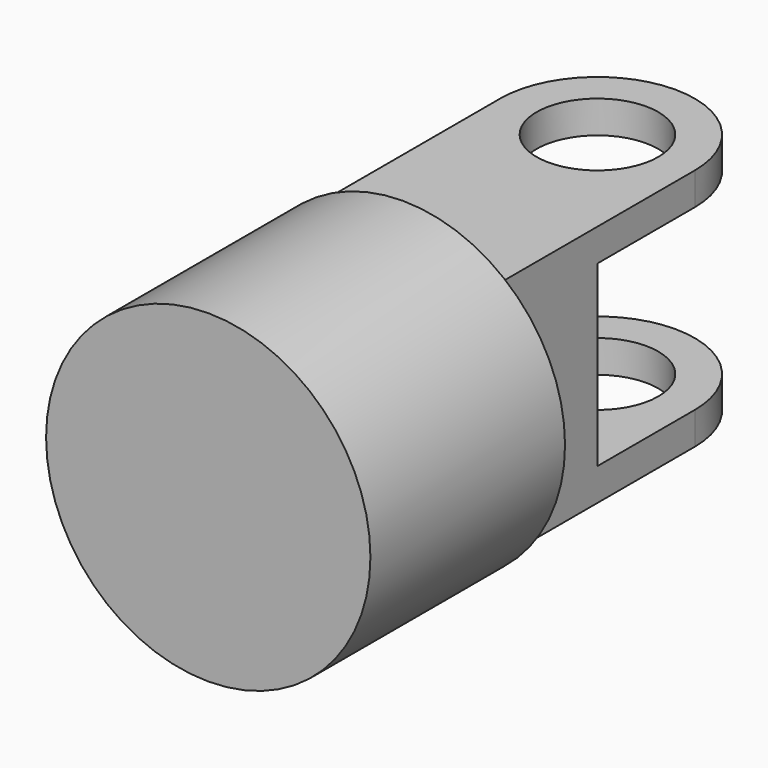
from build123d import *

# Parameters (mm, degrees)
F1_DEPTH = 30
F2_R     = 20
F2_W     = 24
F2_H     = 30
F3_DEPTH = 30
F4_W     = 15
F4_H     = 22
F5_DEPTH = 25.4


with BuildPart() as f1:
    # F0 (on Top) → F1 (new body)
    with BuildSketch(Plane.XY):
        with BuildLine():
            Line((7.5, 15), (12, 15))
            ThreePointArc((12, 15), (0, 27), (-12, 15))
            Line((-12, 15), (-7.5, 15))
            ThreePointArc((-7.5, 15), (0, 22.5), (7.5, 15))
        make_face()
        with BuildLine():
            ThreePointArc((-12, 15), (0, 3), (12, 15))
            Line((12, 15), (7.5, 15))
            ThreePointArc((7.5, 15), (0, 7.5), (-7.5, 15))
            Line((-7.5, 15), (-12, 15))
        make_face()
        with BuildLine():
            Line((12, -15), (12, 15))
            ThreePointArc((12, 15), (0, 3), (-12, 15))
            Line((-12, 15), (-12, -15))
            Line((-12, -15), (12, -15))
        make_face()
    extrude(amount=F1_DEPTH)

    # F2 (on face) → F3 (join)
    with BuildSketch(Plane.XZ.offset(15)):
        with Locations((0, 15)):
            Circle(F2_R)
        with Locations((0, 15)):
            Rectangle(F2_W, F2_H, mode=Mode.SUBTRACT)
        with Locations((0, 15)):
            Rectangle(F2_W, F2_H)
    extrude(amount=F3_DEPTH)

    # F4 (on face) → F5 (cut)
    with BuildSketch(Plane(origin=(-12, 0, 0), x_dir=(0, -1, 0), z_dir=(-1, 0, 0))):
        with Locations((-22.5, 15)):
            Rectangle(F4_W, F4_H)
        with Locations((-7.5, 15)):
            Rectangle(F4_W, F4_H)
    extrude(amount=-F5_DEPTH, mode=Mode.SUBTRACT)


solid = f1.part
